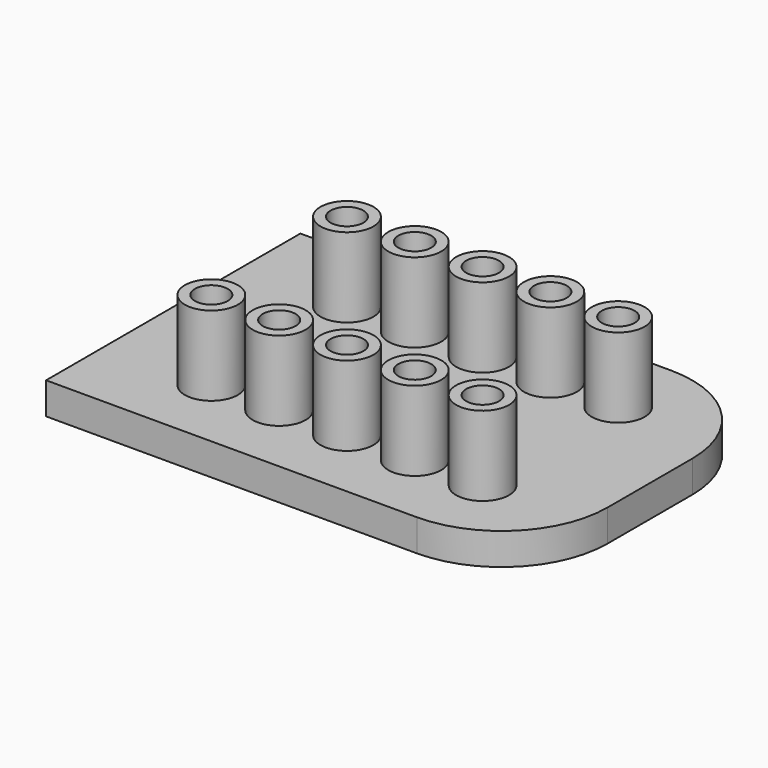
from build123d import *

# Parameters (mm, degrees)
F0_W     = 45
F0_H     = 30
F0_R     = 2.5
F0_R_2   = 1.55
F1_DEPTH = 3
F2_DEPTH = 7.5
F3_R     = 10
F4_ANGLE = 180


with BuildPart() as f1:
    # F0 (on Top) → F1 (new body)
    with BuildSketch(Plane.XY):
        with Locations((22.5, 15)):
            Rectangle(F0_W, F0_H)
        with Locations((10, 7)):
            Circle(F0_R, mode=Mode.SUBTRACT)
        with Locations((16.4, 7)):
            Circle(F0_R, mode=Mode.SUBTRACT)
        with Locations((22.8, 7)):
            Circle(F0_R, mode=Mode.SUBTRACT)
        with Locations((29.2, 7)):
            Circle(F0_R, mode=Mode.SUBTRACT)
        with Locations((35.6, 7)):
            Circle(F0_R, mode=Mode.SUBTRACT)
        with Locations((10, 23)):
            Circle(F0_R, mode=Mode.SUBTRACT)
        with Locations((16.4, 23)):
            Circle(F0_R, mode=Mode.SUBTRACT)
        with Locations((22.8, 23)):
            Circle(F0_R, mode=Mode.SUBTRACT)
        with Locations((29.2, 23)):
            Circle(F0_R, mode=Mode.SUBTRACT)
        with Locations((35.6, 23)):
            Circle(F0_R, mode=Mode.SUBTRACT)
        with Locations((35.6, 23)):
            Circle(F0_R)
        with Locations((35.6, 23)):
            Circle(F0_R_2, mode=Mode.SUBTRACT)
        with Locations((29.2, 23)):
            Circle(F0_R)
        with Locations((29.2, 23)):
            Circle(F0_R_2, mode=Mode.SUBTRACT)
        with Locations((22.8, 23)):
            Circle(F0_R)
        with Locations((22.8, 23)):
            Circle(F0_R_2, mode=Mode.SUBTRACT)
        with Locations((16.4, 23)):
            Circle(F0_R)
        with Locations((16.4, 23)):
            Circle(F0_R_2, mode=Mode.SUBTRACT)
        with Locations((10, 23)):
            Circle(F0_R)
        with Locations((10, 23)):
            Circle(F0_R_2, mode=Mode.SUBTRACT)
        with Locations((10, 7)):
            Circle(F0_R)
        with Locations((10, 7)):
            Circle(F0_R_2, mode=Mode.SUBTRACT)
        with Locations((16.4, 7)):
            Circle(F0_R)
        with Locations((16.4, 7)):
            Circle(F0_R_2, mode=Mode.SUBTRACT)
        with Locations((22.8, 7)):
            Circle(F0_R)
        with Locations((22.8, 7)):
            Circle(F0_R_2, mode=Mode.SUBTRACT)
        with Locations((29.2, 7)):
            Circle(F0_R)
        with Locations((29.2, 7)):
            Circle(F0_R_2, mode=Mode.SUBTRACT)
        with Locations((35.6, 7)):
            Circle(F0_R)
        with Locations((35.6, 7)):
            Circle(F0_R_2, mode=Mode.SUBTRACT)
    extrude(amount=F1_DEPTH)

    # F0 (on Top) → F2 (join)
    with BuildSketch(Plane.XY):
        with Locations((35.6, 23)):
            Circle(F0_R)
        with Locations((35.6, 23)):
            Circle(F0_R_2, mode=Mode.SUBTRACT)
        with Locations((29.2, 23)):
            Circle(F0_R)
        with Locations((29.2, 23)):
            Circle(F0_R_2, mode=Mode.SUBTRACT)
        with Locations((22.8, 23)):
            Circle(F0_R)
        with Locations((22.8, 23)):
            Circle(F0_R_2, mode=Mode.SUBTRACT)
        with Locations((16.4, 23)):
            Circle(F0_R)
        with Locations((16.4, 23)):
            Circle(F0_R_2, mode=Mode.SUBTRACT)
        with Locations((10, 23)):
            Circle(F0_R)
        with Locations((10, 23)):
            Circle(F0_R_2, mode=Mode.SUBTRACT)
        with Locations((10, 7)):
            Circle(F0_R)
        with Locations((10, 7)):
            Circle(F0_R_2, mode=Mode.SUBTRACT)
        with Locations((16.4, 7)):
            Circle(F0_R)
        with Locations((16.4, 7)):
            Circle(F0_R_2, mode=Mode.SUBTRACT)
        with Locations((22.8, 7)):
            Circle(F0_R)
        with Locations((22.8, 7)):
            Circle(F0_R_2, mode=Mode.SUBTRACT)
        with Locations((29.2, 7)):
            Circle(F0_R)
        with Locations((29.2, 7)):
            Circle(F0_R_2, mode=Mode.SUBTRACT)
        with Locations((35.6, 7)):
            Circle(F0_R)
        with Locations((35.6, 7)):
            Circle(F0_R_2, mode=Mode.SUBTRACT)
    extrude(amount=-F2_DEPTH)

    # F3
    f3_edges = [f1.edges().sort_by_distance(p)[0] for p in [
        (45, 30, 1.5),
        (45, 0, 1.5),
    ]]
    fillet(f3_edges, radius=F3_R)


with BuildPart() as f1_1:
    # F4: moved
    add(f1.part.rotate(Axis((22.5, 0, 0), (1, 0, 0)), F4_ANGLE))


solid = f1_1.part
